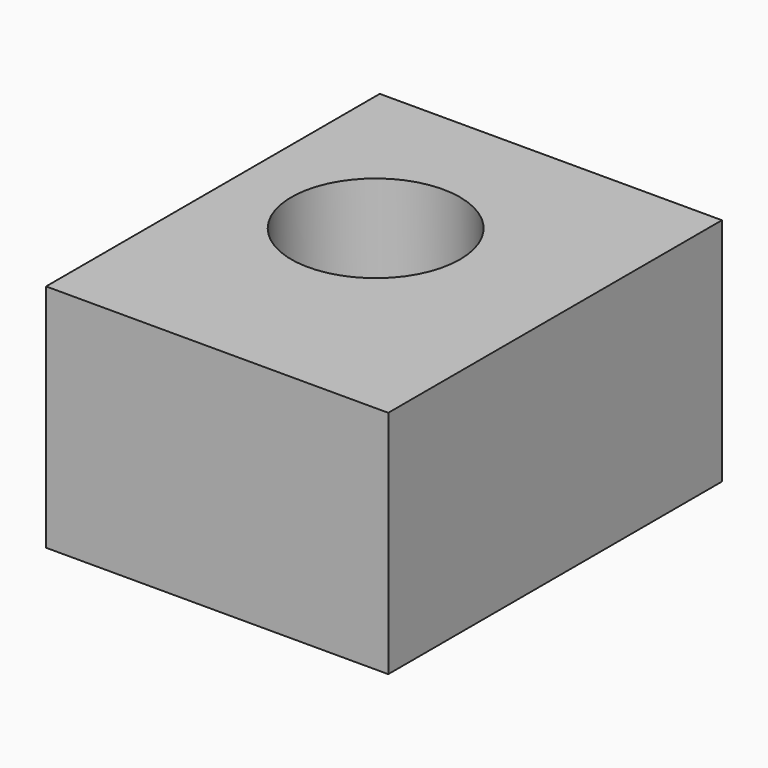
from build123d import *

# Parameters (mm, degrees)
F0_W     = 92.6259309053
F0_H     = 62.2871294618
F1_DEPTH = 112.9
F2_R     = 22.8298524691
F3_DEPTH = 124.5


with BuildPart() as f1:
    # F0 (on Front) → F1 (new body)
    with BuildSketch(Plane.XZ):
        with Locations((46.3129654527, 31.1435647309)):
            Rectangle(F0_W, F0_H)
    extrude(amount=F1_DEPTH)

    # F2 (on face) → F3 (cut)
    with BuildSketch(Plane.XY.offset(62.2871294618)):
        with Locations((37.7870649099, -48.6115626991)):
            Circle(F2_R)
    extrude(amount=-F3_DEPTH, mode=Mode.SUBTRACT)


solid = f1.part
